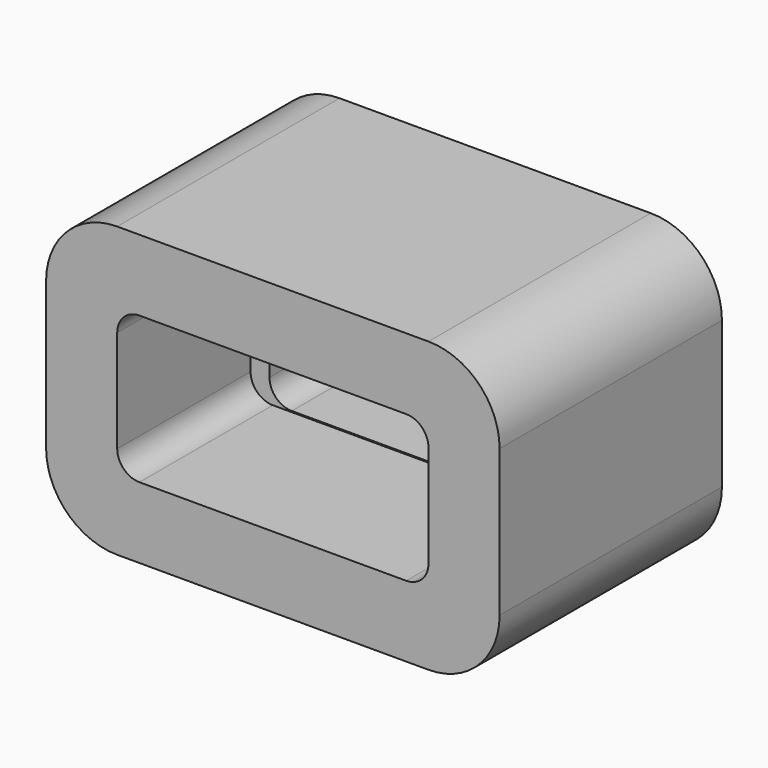
from build123d import *

# Parameters (mm, degrees)
SKETCH058_W     = 20.4
SKETCH058_H     = 13
PAD032_DEPTH    = 12.5
SKETCH059_W     = 14
SKETCH059_H     = 6.6
POCKET027_DEPTH = 7.5
SKETCH060_W     = 12.3
SKETCH060_H     = 6.5
POCKET028_DEPTH = 5
FILLET027_R     = 1
FILLET028_R     = 3.2


with BuildPart() as part:
    # Sketch058 → Pad032 (new body)
    with BuildSketch(Plane.XZ):
        with Locations((10.2, 6.5)):
            Rectangle(SKETCH058_W, SKETCH058_H)
    extrude(amount=PAD032_DEPTH)

    # Sketch059 (on Face6 of Pad032) → Pocket027 (cut)
    with BuildSketch(Plane.XZ.offset(12.5)):
        with Locations((10.2, 6.5)):
            Rectangle(SKETCH059_W, SKETCH059_H)
    extrude(amount=-POCKET027_DEPTH, mode=Mode.SUBTRACT)

    # Sketch060 (on Face4 of Pocket027) → Pocket028 (cut)
    with BuildSketch(Plane(origin=(0, 0, 0), x_dir=(1, 0, 0), z_dir=(0, 1, 0))):
        with Locations((10.2, -6.5)):
            Rectangle(SKETCH060_W, SKETCH060_H)
    extrude(amount=-POCKET028_DEPTH, mode=Mode.SUBTRACT)

    # Fillet027
    fillet027_edges = [part.edges().sort_by_distance(p)[0] for p in [
        (16.35, -2.5, 9.75),
        (4.05, -2.5, 9.75),
        (4.05, -2.5, 3.25),
        (16.35, -2.5, 3.25),
        (17.2, -8.75, 9.8),
        (17.2, -8.75, 3.2),
        (3.2, -8.75, 3.2),
        (3.2, -8.75, 9.8),
    ]]
    fillet(fillet027_edges, radius=FILLET027_R)

    # Fillet028
    fillet028_edges = [part.edges().sort_by_distance(p)[0] for p in [
        (0, -6.25, 13),
        (0, -6.25, 0),
        (20.4, -6.25, 13),
        (20.4, -6.25, 0),
    ]]
    fillet(fillet028_edges, radius=FILLET028_R)


solid = part.part
